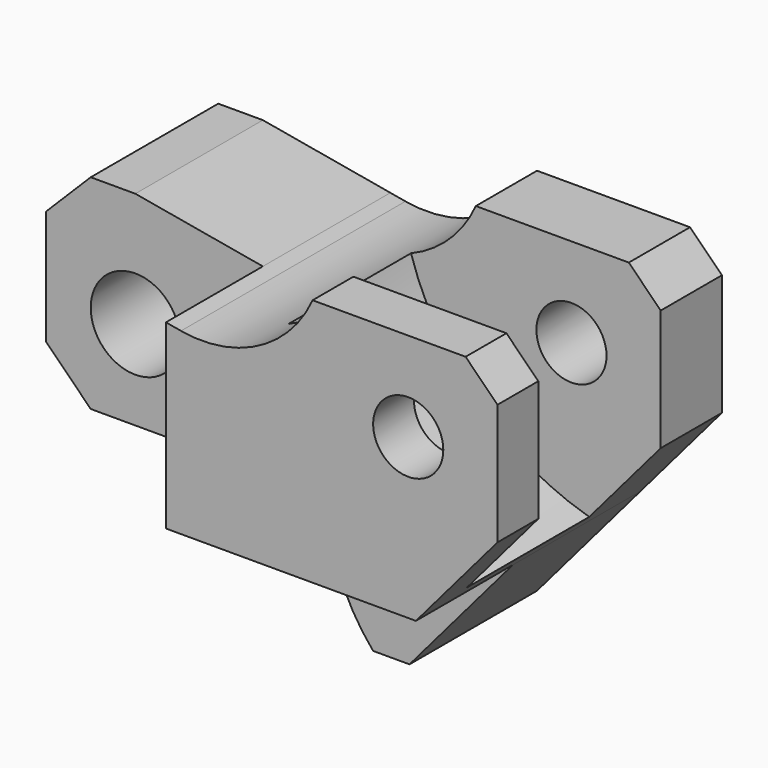
from build123d import *

# Parameters (mm, degrees)
F0_R     = 7
F0_R_2   = 5.5
F1_DEPTH = 44
F2_DEPTH = 19
F5_DEPTH = 24
F6_DEPTH = 19


with BuildPart() as f1:
    # F0 (on Front) → F1 (new body)
    with BuildSketch(Plane.XZ):
        Polygon((-14, 11), (-14, -7), (-7, -14), (20, -14), (20, 14.4734603858), (0, 18), (-7, 18), align=None)
        Circle(F0_R, mode=Mode.SUBTRACT)
        with BuildLine():
            Line((20, 14.4734603858), (20, -14))
            Line((20, -14), (25.5755389113, -14))
            Line((25.5755389113, -14), (59.2058823529, -14))
            Line((59.2058823529, -14), (72, 1))
            Line((72, 1), (72, 20))
            Line((72, 20), (67, 25))
            Line((67, 25), (43, 25))
            ThreePointArc((43, 25), (34.5610987057, 15.9820441422), (22.3613808358, 14.0570852328))
            Line((22.3613808358, 14.0570852328), (20, 14.4734603858))
        make_face()
        with Locations((58, 11)):
            Circle(F0_R_2, mode=Mode.SUBTRACT)
        with BuildLine():
            Line((59.2058823529, -14), (25.5755389113, -14))
            ThreePointArc((25.5755389113, -14), (28.8407746924, -15.2134137678), (30.5211776528, -18.2647058824))
            ThreePointArc((30.5211776528, -18.2647058824), (32.8580078559, -26.115672061), (37.2969800527, -33))
            Line((37.2969800527, -33), (43, -33))
            Line((43, -33), (59.2058823529, -14))
        make_face()
    extrude(amount=-F1_DEPTH)

    # F0 (on Front) → F2 (cut)
    with BuildSketch(Plane.XZ):
        Polygon((-14, 11), (-14, -7), (-7, -14), (20, -14), (20, 14.4734603858), (0, 18), (-7, 18), align=None)
        Circle(F0_R, mode=Mode.SUBTRACT)
    extrude(amount=-F2_DEPTH, mode=Mode.SUBTRACT)

    # F4 (on offset) → F5 (cut)
    with BuildSketch(Plane(origin=(0, 32, 0), x_dir=(-1, 0, 0), z_dir=(0, 1, 0))):
        with BuildLine():
            Line((-79.095418143, 42.8479425609), (-79.095418143, -13.075442161))
            ThreePointArc((-79.095418143, -13.075442161), (-39.789926782, 1.9384056037), (-34.4063231516, 43.6679405614))
            Line((-34.4063231516, 43.6679405614), (-79.095418143, 42.8479425609))
        make_face()
    extrude(amount=-F5_DEPTH, mode=Mode.SUBTRACT)

    # F0 (on Front) → F6 (cut)
    with BuildSketch(Plane.XZ):
        with BuildLine():
            Line((59.2058823529, -14), (25.5755389113, -14))
            ThreePointArc((25.5755389113, -14), (28.8407746924, -15.2134137678), (30.5211776528, -18.2647058824))
            ThreePointArc((30.5211776528, -18.2647058824), (32.8580078559, -26.115672061), (37.2969800527, -33))
            Line((37.2969800527, -33), (43, -33))
            Line((43, -33), (59.2058823529, -14))
        make_face()
    extrude(amount=-F6_DEPTH, mode=Mode.SUBTRACT)


solid = f1.part
